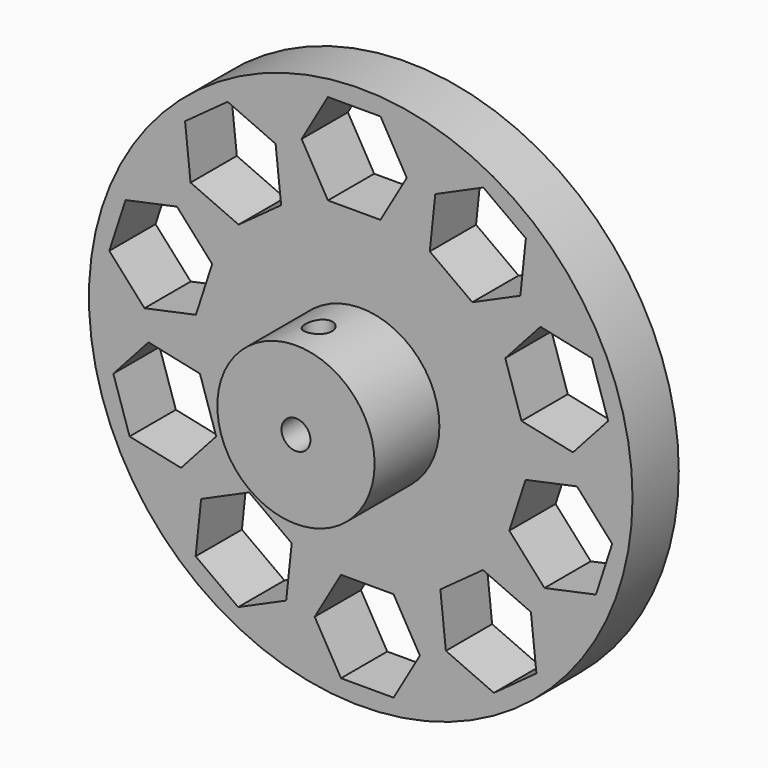
from build123d import *

# Parameters (mm, degrees)
F0_R     = 29.845
F1_DEPTH = 6.35
F2_R     = 8.636
F3_DEPTH = 8.89
F4_R     = 1.5875
F5_DEPTH = 15.241
F6_R     = 1.4605
F7_DEPTH = 15.241
F8_R     = 1.4605
F9_DEPTH = 29.846


with BuildPart() as f1:
    # F0 (on Front) → F1 (new body)
    with BuildSketch(Plane.XZ):
        with Locations((0.718291, 0)):
            Circle(F0_R)
        Polygon((-12.740865, -24.658204), (-17.411727, -21.264625), (-16.808232, -15.52275), (-11.533875, -13.174455), (-6.863013, -16.568034), (-7.466508, -22.309909), align=None, mode=Mode.SUBTRACT)
        Polygon((-24.664124, -12.037813), (-26.448234, -6.546885), (-22.585007, -2.256337), (-16.937669, -3.456715), (-15.153559, -8.947643), (-19.016786, -13.238191), align=None, mode=Mode.SUBTRACT)
        Polygon((4.323334, -27.86), (-1.450169, -27.86), (-4.33692, -22.86), (-1.450169, -17.86), (4.323334, -17.86), (7.210085, -22.86), align=None, mode=Mode.SUBTRACT)
        Polygon((20.010529, -20.420223), (15.339667, -23.813802), (10.06531, -21.465507), (9.461815, -15.723632), (14.132676, -12.330053), (19.407034, -14.678348), align=None, mode=Mode.SUBTRACT)
        Polygon((28.328745, -5.180614), (26.544635, -10.671542), (20.897297, -11.87192), (17.034069, -7.581372), (18.81818, -2.090444), (24.465518, -0.890066), align=None, mode=Mode.SUBTRACT)
        Polygon((-26.892163, 5.180614), (-25.108052, 10.671542), (-19.460715, 11.87192), (-15.597487, 7.581372), (-17.381598, 2.090444), (-23.028935, 0.890066), align=None, mode=Mode.SUBTRACT)
        Polygon((-18.573947, 20.420223), (-13.903085, 23.813802), (-8.628728, 21.465507), (-8.025232, 15.723632), (-12.696094, 12.330053), (-17.970451, 14.678348), align=None, mode=Mode.SUBTRACT)
        Polygon((5.773503, 22.86), (2.886751, 17.86), (-2.886751, 17.86), (-5.773503, 22.86), (-2.886751, 27.86), (2.886751, 27.86), align=None, mode=Mode.SUBTRACT)
        Polygon((26.100706, 12.037813), (27.884817, 6.546885), (24.021589, 2.256337), (18.374252, 3.456715), (16.590141, 8.947643), (20.453368, 13.238191), align=None, mode=Mode.SUBTRACT)
        Polygon((14.177448, 24.658204), (18.848309, 21.264625), (18.244814, 15.52275), (12.970457, 13.174455), (8.299595, 16.568034), (8.90309, 22.309909), align=None, mode=Mode.SUBTRACT)
    extrude(amount=F1_DEPTH)

    # F2 (on face) → F3 (join)
    with BuildSketch(Plane.XZ.offset(6.35)):
        with Locations((0.718291, 0)):
            Circle(F2_R)
    extrude(amount=F3_DEPTH)

    # F4 (on face) → F5 (cut, through all)
    with BuildSketch(Plane.XZ.offset(15.24)):
        with Locations((0.718291, 0)):
            Circle(F4_R)
    extrude(amount=-F5_DEPTH, mode=Mode.SUBTRACT)

    # F6 (on face) → F7 (cut, through all)
    with BuildSketch(Plane(origin=(0, 0, 0), x_dir=(-1, 0, 0), z_dir=(0, 1, 0))):
        with Locations((9.9703, 0)):
            Circle(F6_R)
    extrude(amount=-F7_DEPTH, mode=Mode.SUBTRACT)

    # F8 (on Top) → F9 (cut, through all)
    with BuildSketch(Plane.XY):
        with Locations((0, -11.241886)):
            Circle(F8_R)
    extrude(amount=F9_DEPTH, mode=Mode.SUBTRACT)


solid = f1.part
